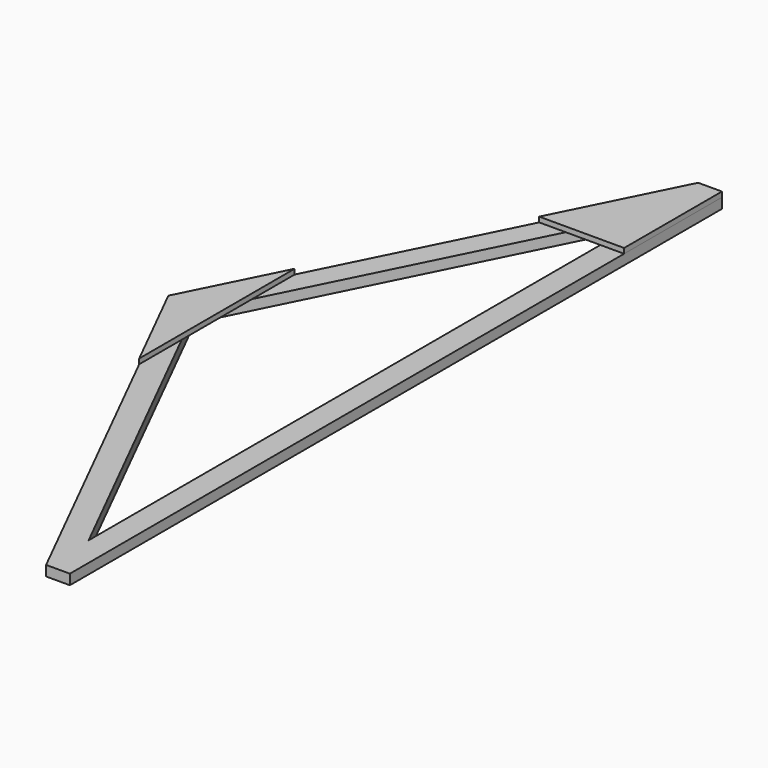
from build123d import *

# Parameters (mm, degrees)
F0_W     = 88.9
F0_H     = 38.1
F1_DEPTH = 3048
F3_DEPTH = 38.1
F5_DEPTH = 38.1
F7_DEPTH = 19.05
F9_DEPTH = 19.05


with BuildPart() as f1:
    # F0 (on Front) → F1 (new body)
    with BuildSketch(Plane.XZ):
        with Locations((44.45, -19.05)):
            Rectangle(F0_W, F0_H)
    extrude(amount=F1_DEPTH)

    # F2 (on Top) → F3 (join)
    with BuildSketch(Plane.XY):
        Polygon((79.514577, -39.757289), (0, 0), (-762, -1524), (-682.485423, -1563.757288), align=None)
    extrude(amount=-F3_DEPTH)

    # F4 (on Top) → F5 (join)
    with BuildSketch(Plane.XY):
        Polygon((-682.485423, -1484.242711), (-762, -1524), (0, -3048), (79.514577, -3008.242711), align=None)
    extrude(amount=-F5_DEPTH)


with BuildPart() as f7:
    # F6 (on face) → F7 (new body)
    with BuildSketch(Plane.XY):
        Polygon((-228.6, -457.2), (88.9, -457.2), (88.9, 0), (0, 0), align=None)
    extrude(amount=F7_DEPTH)


with BuildPart() as f9:
    # F8 (on face) → F9 (new body)
    with BuildSketch(Plane.XY):
        Polygon((-580.252395, -1160.504789), (-762, -1524), (-580.252395, -1887.49521), align=None)
    extrude(amount=F9_DEPTH)


solid = Compound([f1.part, f7.part, f9.part])
